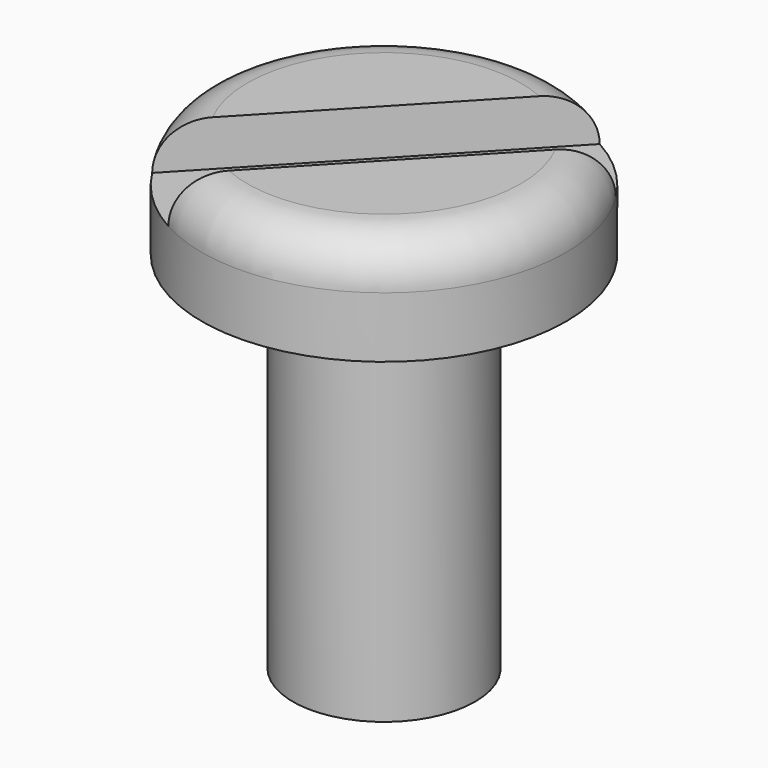
from build123d import *

# Parameters (mm, degrees)
POCKET_DEPTH = 0.75


with BuildPart() as part:
    # Sketch → Revolution (revolve)
    with BuildSketch(Plane.XZ):
        with BuildLine():
            Line((0, 0), (0, 7.75))
            Line((0, 7.75), (2.25, 7.75))
            ThreePointArc((3, 7), (2.78033, 7.53033), (2.25, 7.75))
            Line((3, 7), (3, 6))
            Line((3, 6), (1.5, 6))
            Line((1.5, 6), (1.5, 0))
            Line((1.5, 0), (0, 0))
        make_face()
    revolve(axis=Axis((0, 0, 0), (0, 0, 1)))

    # Sketch001 (on Face5 of Revolution) → Pocket (cut)
    with BuildSketch(Plane(origin=(0, 0, 7.75), x_dir=(-1, 0, 0), z_dir=(0, 0, 1))):
        Polygon((-3.274783, -2.372712), (2.184691, 3.4031), (3.274783, 2.372712), (-2.184691, -3.4031), align=None)
    extrude(amount=-POCKET_DEPTH, mode=Mode.SUBTRACT)


solid = part.part
